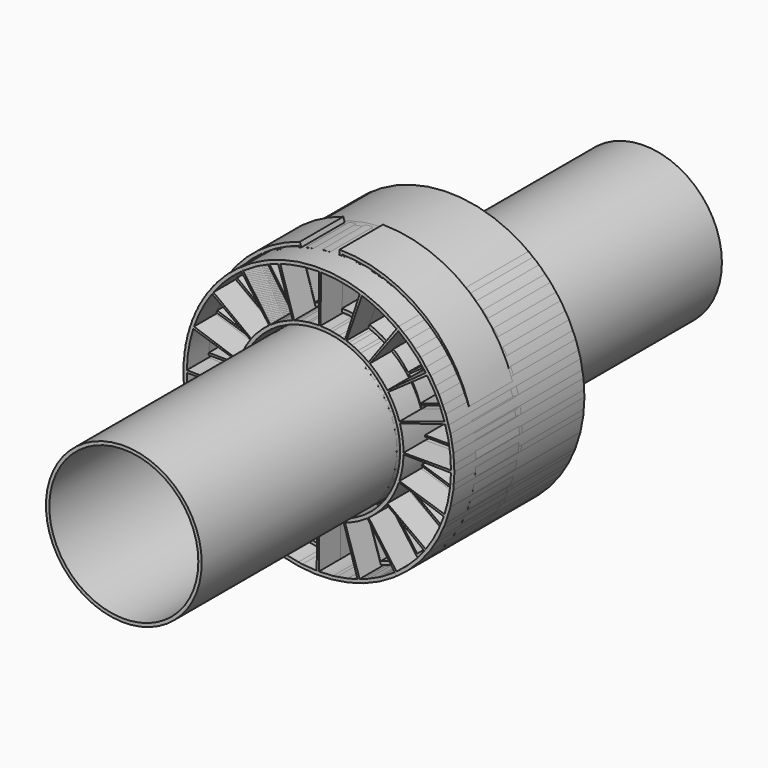
from build123d import *

# Parameters (mm, degrees)
F0_R      = 63.5
F0_R_2    = 38.1
F1_DEPTH  = 38.1
F2_R      = 63.5
F3_DEPTH  = 38.1
F4_R      = 38.1
F5_DEPTH  = 38.1
F6_R      = 36.5125
F6_R_2    = 34.925
F7_DEPTH  = 152.4
F9_DEPTH  = 38.1
F11_DEPTH = 3.175
F12_R     = 63.5
F12_R_2   = 38.1
F13_DEPTH = 1.5875
F15_DEPTH = 25.4
F17_DEPTH = 25.4


with BuildPart() as f1:
    # F0 (on Front) → F1 (new body, symmetric)
    with BuildSketch(Plane.XZ):
        Circle(F0_R)
        with BuildLine():
            Line((-50.088265, -36.391254), (-32.107862, -23.327727))
            ThreePointArc((-32.107862, -23.327727), (-28.307127, -27.817336), (-23.884534, -31.695847))
            Line((-23.884534, -31.695847), (-37.259873, -49.445521))
            ThreePointArc((-37.259873, -49.445521), (-44.159118, -43.395045), (-50.088265, -36.391254))
        make_face(mode=Mode.SUBTRACT)
        with BuildLine():
            Line((-19.132015, -58.882287), (-12.264112, -37.745055))
            ThreePointArc((-12.264112, -37.745055), (-6.550327, -39.14321), (-0.692642, -39.681455))
            Line((-0.692642, -39.681455), (-1.080522, -61.90307))
            ThreePointArc((-1.080522, -61.90307), (-10.21851, -61.063407), (-19.132015, -58.882287))
        make_face(mode=Mode.SUBTRACT)
        with BuildLine():
            Line((-36.391254, -50.088265), (-23.327727, -32.107862))
            ThreePointArc((-23.327727, -32.107862), (-18.325648, -35.203242), (-12.920986, -37.525268))
            Line((-12.920986, -37.525268), (-20.156738, -58.539419))
            ThreePointArc((-20.156738, -58.539419), (-28.588011, -54.917058), (-36.391254, -50.088265))
        make_face(mode=Mode.SUBTRACT)
        with BuildLine():
            Line((-58.882287, -19.132015), (-37.745055, -12.264112))
            ThreePointArc((-37.745055, -12.264112), (-35.517707, -17.708476), (-32.510097, -22.763815))
            Line((-32.510097, -22.763815), (-50.715751, -35.511551))
            ThreePointArc((-50.715751, -35.511551), (-55.407624, -27.625222), (-58.882287, -19.132015))
        make_face(mode=Mode.SUBTRACT)
        with BuildLine():
            Line((-61.9125, 0), (-39.6875, 0))
            ThreePointArc((-39.6875, 0), (-39.251567, -5.866186), (-37.953345, -11.603502))
            Line((-37.953345, -11.603502), (-59.207218, -18.101463))
            ThreePointArc((-59.207218, -18.101463), (-61.232445, -9.15125), (-61.9125, 0))
        make_face(mode=Mode.SUBTRACT)
        with BuildLine():
            Line((0, -61.9125), (0, -39.6875))
            ThreePointArc((0, -39.6875), (5.866186, -39.251567), (11.603502, -37.953345))
            Line((11.603502, -37.953345), (18.101463, -59.207218))
            ThreePointArc((18.101463, -59.207218), (9.15125, -61.232445), (0, -61.9125))
        make_face(mode=Mode.SUBTRACT)
        with BuildLine():
            Line((19.132015, -58.882287), (12.264112, -37.745055))
            ThreePointArc((12.264112, -37.745055), (17.708476, -35.517707), (22.763815, -32.510097))
            Line((22.763815, -32.510097), (35.511551, -50.715751))
            ThreePointArc((35.511551, -50.715751), (27.625222, -55.407624), (19.132015, -58.882287))
        make_face(mode=Mode.SUBTRACT)
        with BuildLine():
            Line((36.391254, -50.088265), (23.327727, -32.107862))
            ThreePointArc((23.327727, -32.107862), (27.817336, -28.307127), (31.695847, -23.884534))
            Line((31.695847, -23.884534), (49.445521, -37.259873))
            ThreePointArc((49.445521, -37.259873), (43.395045, -44.159118), (36.391254, -50.088265))
        make_face(mode=Mode.SUBTRACT)
        with BuildLine():
            Line((50.088265, -36.391254), (32.107862, -23.327727))
            ThreePointArc((32.107862, -23.327727), (35.203242, -18.325648), (37.525268, -12.920986))
            Line((37.525268, -12.920986), (58.539419, -20.156738))
            ThreePointArc((58.539419, -20.156738), (54.917058, -28.588011), (50.088265, -36.391254))
        make_face(mode=Mode.SUBTRACT)
        with BuildLine():
            Line((58.882287, -19.132015), (37.745055, -12.264112))
            ThreePointArc((37.745055, -12.264112), (39.14321, -6.550327), (39.681455, -0.692642))
            Line((39.681455, -0.692642), (61.90307, -1.080522))
            ThreePointArc((61.90307, -1.080522), (61.063407, -10.21851), (58.882287, -19.132015))
        make_face(mode=Mode.SUBTRACT)
        with BuildLine():
            Line((-58.882287, 19.132015), (-37.745055, 12.264112))
            ThreePointArc((-37.745055, 12.264112), (-39.14321, 6.550327), (-39.681455, 0.692642))
            Line((-39.681455, 0.692642), (-61.90307, 1.080522))
            ThreePointArc((-61.90307, 1.080522), (-61.063407, 10.21851), (-58.882287, 19.132015))
        make_face(mode=Mode.SUBTRACT)
        with BuildLine():
            Line((-50.088265, 36.391254), (-32.107862, 23.327727))
            ThreePointArc((-32.107862, 23.327727), (-35.203242, 18.325648), (-37.525268, 12.920986))
            Line((-37.525268, 12.920986), (-58.539419, 20.156738))
            ThreePointArc((-58.539419, 20.156738), (-54.917058, 28.588011), (-50.088265, 36.391254))
        make_face(mode=Mode.SUBTRACT)
        with BuildLine():
            Line((-36.391254, 50.088265), (-23.327727, 32.107862))
            ThreePointArc((-23.327727, 32.107862), (-27.817336, 28.307127), (-31.695847, 23.884534))
            Line((-31.695847, 23.884534), (-49.445521, 37.259873))
            ThreePointArc((-49.445521, 37.259873), (-43.395045, 44.159118), (-36.391254, 50.088265))
        make_face(mode=Mode.SUBTRACT)
        with BuildLine():
            Line((-19.132015, 58.882287), (-12.264112, 37.745055))
            ThreePointArc((-12.264112, 37.745055), (-17.708476, 35.517707), (-22.763815, 32.510097))
            Line((-22.763815, 32.510097), (-35.511551, 50.715751))
            ThreePointArc((-35.511551, 50.715751), (-27.625222, 55.407624), (-19.132015, 58.882287))
        make_face(mode=Mode.SUBTRACT)
        with BuildLine():
            Line((0, 61.9125), (0, 39.6875))
            ThreePointArc((0, 39.6875), (-5.866186, 39.251567), (-11.603502, 37.953345))
            Line((-11.603502, 37.953345), (-18.101463, 59.207218))
            ThreePointArc((-18.101463, 59.207218), (-9.15125, 61.232445), (0, 61.9125))
        make_face(mode=Mode.SUBTRACT)
        Circle(F0_R_2, mode=Mode.SUBTRACT)
        with BuildLine():
            Line((61.9125, 0), (39.6875, 0))
            ThreePointArc((39.6875, 0), (39.251567, 5.866186), (37.953345, 11.603502))
            Line((37.953345, 11.603502), (59.207218, 18.101463))
            ThreePointArc((59.207218, 18.101463), (61.232445, 9.15125), (61.9125, 0))
        make_face(mode=Mode.SUBTRACT)
        with BuildLine():
            Line((58.882287, 19.132015), (37.745055, 12.264112))
            ThreePointArc((37.745055, 12.264112), (35.517707, 17.708476), (32.510097, 22.763815))
            Line((32.510097, 22.763815), (50.715751, 35.511551))
            ThreePointArc((50.715751, 35.511551), (55.407624, 27.625222), (58.882287, 19.132015))
        make_face(mode=Mode.SUBTRACT)
        with BuildLine():
            Line((36.391254, 50.088265), (23.327727, 32.107862))
            ThreePointArc((23.327727, 32.107862), (18.325648, 35.203242), (12.920986, 37.525268))
            Line((12.920986, 37.525268), (20.156738, 58.539419))
            ThreePointArc((20.156738, 58.539419), (28.588011, 54.917058), (36.391254, 50.088265))
        make_face(mode=Mode.SUBTRACT)
        with BuildLine():
            Line((19.132015, 58.882287), (12.264112, 37.745055))
            ThreePointArc((12.264112, 37.745055), (6.550327, 39.14321), (0.692642, 39.681455))
            Line((0.692642, 39.681455), (1.080522, 61.90307))
            ThreePointArc((1.080522, 61.90307), (10.21851, 61.063407), (19.132015, 58.882287))
        make_face(mode=Mode.SUBTRACT)
        with BuildLine():
            Line((50.088265, 36.391254), (32.107862, 23.327727))
            ThreePointArc((32.107862, 23.327727), (28.307127, 27.817336), (23.884534, 31.695847))
            Line((23.884534, 31.695847), (37.259873, 49.445521))
            ThreePointArc((37.259873, 49.445521), (44.159118, 43.395045), (50.088265, 36.391254))
        make_face(mode=Mode.SUBTRACT)
    extrude(amount=F1_DEPTH, both=True)


with BuildPart() as f3:
    # F2 (on Front) → F3 (new body, symmetric)
    with BuildSketch(Plane.XZ):
        Circle(F2_R)
        with BuildLine():
            Line((-50.088265, -36.391254), (-32.107862, -23.327727))
            ThreePointArc((-32.107862, -23.327727), (-28.307127, -27.817336), (-23.884534, -31.695847))
            Line((-23.884534, -31.695847), (-37.259873, -49.445521))
            ThreePointArc((-37.259873, -49.445521), (-44.159118, -43.395045), (-50.088265, -36.391254))
        make_face(mode=Mode.SUBTRACT)
        with BuildLine():
            Line((-58.882287, -19.132015), (-37.745055, -12.264112))
            ThreePointArc((-37.745055, -12.264112), (-35.517707, -17.708476), (-32.510097, -22.763815))
            Line((-32.510097, -22.763815), (-50.715751, -35.511551))
            ThreePointArc((-50.715751, -35.511551), (-55.407624, -27.625222), (-58.882287, -19.132015))
        make_face(mode=Mode.SUBTRACT)
        with BuildLine():
            Line((-61.9125, 0), (-39.6875, 0))
            ThreePointArc((-39.6875, 0), (-39.251567, -5.866186), (-37.953345, -11.603502))
            Line((-37.953345, -11.603502), (-59.207218, -18.101463))
            ThreePointArc((-59.207218, -18.101463), (-61.232445, -9.15125), (-61.9125, 0))
        make_face(mode=Mode.SUBTRACT)
        with BuildLine():
            ThreePointArc((-22.394618, -30.823547), (-38.098549, 0.332481), (-21.853262, 31.209693))
            Line((-21.853262, 31.209693), (-35.511551, 50.715751))
            ThreePointArc((-35.511551, 50.715751), (0.540282, 61.910143), (36.391254, 50.088265))
            Line((36.391254, 50.088265), (22.394618, 30.823547))
            ThreePointArc((22.394618, 30.823547), (38.098549, -0.332481), (21.853262, -31.209693))
            Line((21.853262, -31.209693), (35.511551, -50.715751))
            ThreePointArc((35.511551, -50.715751), (-0.540282, -61.910143), (-36.391254, -50.088265))
            Line((-36.391254, -50.088265), (-22.394618, -30.823547))
        make_face(mode=Mode.SUBTRACT)
        with BuildLine():
            Line((36.391254, -50.088265), (23.327727, -32.107862))
            ThreePointArc((23.327727, -32.107862), (27.817336, -28.307127), (31.695847, -23.884534))
            Line((31.695847, -23.884534), (49.445521, -37.259873))
            ThreePointArc((49.445521, -37.259873), (43.395045, -44.159118), (36.391254, -50.088265))
        make_face(mode=Mode.SUBTRACT)
        with BuildLine():
            Line((50.088265, -36.391254), (32.107862, -23.327727))
            ThreePointArc((32.107862, -23.327727), (35.203242, -18.325648), (37.525268, -12.920986))
            Line((37.525268, -12.920986), (58.539419, -20.156738))
            ThreePointArc((58.539419, -20.156738), (54.917058, -28.588011), (50.088265, -36.391254))
        make_face(mode=Mode.SUBTRACT)
        with BuildLine():
            Line((58.882287, -19.132015), (37.745055, -12.264112))
            ThreePointArc((37.745055, -12.264112), (39.14321, -6.550327), (39.681455, -0.692642))
            Line((39.681455, -0.692642), (61.90307, -1.080522))
            ThreePointArc((61.90307, -1.080522), (61.063407, -10.21851), (58.882287, -19.132015))
        make_face(mode=Mode.SUBTRACT)
        with BuildLine():
            Line((-58.882287, 19.132015), (-37.745055, 12.264112))
            ThreePointArc((-37.745055, 12.264112), (-39.14321, 6.550327), (-39.681455, 0.692642))
            Line((-39.681455, 0.692642), (-61.90307, 1.080522))
            ThreePointArc((-61.90307, 1.080522), (-61.063407, 10.21851), (-58.882287, 19.132015))
        make_face(mode=Mode.SUBTRACT)
        with BuildLine():
            Line((-50.088265, 36.391254), (-32.107862, 23.327727))
            ThreePointArc((-32.107862, 23.327727), (-35.203242, 18.325648), (-37.525268, 12.920986))
            Line((-37.525268, 12.920986), (-58.539419, 20.156738))
            ThreePointArc((-58.539419, 20.156738), (-54.917058, 28.588011), (-50.088265, 36.391254))
        make_face(mode=Mode.SUBTRACT)
        with BuildLine():
            Line((-36.391254, 50.088265), (-23.327727, 32.107862))
            ThreePointArc((-23.327727, 32.107862), (-27.817336, 28.307127), (-31.695847, 23.884534))
            Line((-31.695847, 23.884534), (-49.445521, 37.259873))
            ThreePointArc((-49.445521, 37.259873), (-43.395045, 44.159118), (-36.391254, 50.088265))
        make_face(mode=Mode.SUBTRACT)
        with BuildLine():
            Line((61.9125, 0), (39.6875, 0))
            ThreePointArc((39.6875, 0), (39.251567, 5.866186), (37.953345, 11.603502))
            Line((37.953345, 11.603502), (59.207218, 18.101463))
            ThreePointArc((59.207218, 18.101463), (61.232445, 9.15125), (61.9125, 0))
        make_face(mode=Mode.SUBTRACT)
        with BuildLine():
            Line((58.882287, 19.132015), (37.745055, 12.264112))
            ThreePointArc((37.745055, 12.264112), (35.517707, 17.708476), (32.510097, 22.763815))
            Line((32.510097, 22.763815), (50.715751, 35.511551))
            ThreePointArc((50.715751, 35.511551), (55.407624, 27.625222), (58.882287, 19.132015))
        make_face(mode=Mode.SUBTRACT)
        with BuildLine():
            Line((50.088265, 36.391254), (32.107862, 23.327727))
            ThreePointArc((32.107862, 23.327727), (28.307127, 27.817336), (23.884534, 31.695847))
            Line((23.884534, 31.695847), (37.259873, 49.445521))
            ThreePointArc((37.259873, 49.445521), (44.159118, 43.395045), (50.088265, 36.391254))
        make_face(mode=Mode.SUBTRACT)
    extrude(amount=F3_DEPTH, both=True)


with BuildPart() as f5:
    # F4 (on Front) → F5 (new body, symmetric)
    with BuildSketch(Plane.XZ):
        with BuildLine():
            Line((-22.763815, 32.510097), (-36.422104, 52.016155))
            ThreePointArc((-36.422104, 52.016155), (-63.497582, 0.554135), (-37.324364, -51.372579))
            Line((-37.324364, -51.372579), (-23.327727, -32.107862))
            ThreePointArc((-23.327727, -32.107862), (-0.346334, -39.685989), (22.763815, -32.510097))
            Line((22.763815, -32.510097), (36.422104, -52.016155))
            ThreePointArc((36.422104, -52.016155), (63.497582, -0.554135), (37.324364, 51.372579))
            Line((37.324364, 51.372579), (23.327727, 32.107862))
            ThreePointArc((23.327727, 32.107862), (0.346334, 39.685989), (-22.763815, 32.510097))
        make_face()
        with BuildLine():
            Line((-50.088265, -36.391254), (-32.107862, -23.327727))
            ThreePointArc((-32.107862, -23.327727), (-28.307127, -27.817336), (-23.884534, -31.695847))
            Line((-23.884534, -31.695847), (-37.259873, -49.445521))
            ThreePointArc((-37.259873, -49.445521), (-44.159118, -43.395045), (-50.088265, -36.391254))
        make_face(mode=Mode.SUBTRACT)
        with BuildLine():
            Line((-58.882287, -19.132015), (-37.745055, -12.264112))
            ThreePointArc((-37.745055, -12.264112), (-35.517707, -17.708476), (-32.510097, -22.763815))
            Line((-32.510097, -22.763815), (-50.715751, -35.511551))
            ThreePointArc((-50.715751, -35.511551), (-55.407624, -27.625222), (-58.882287, -19.132015))
        make_face(mode=Mode.SUBTRACT)
        with BuildLine():
            Line((-61.9125, 0), (-39.6875, 0))
            ThreePointArc((-39.6875, 0), (-39.251567, -5.866186), (-37.953345, -11.603502))
            Line((-37.953345, -11.603502), (-59.207218, -18.101463))
            ThreePointArc((-59.207218, -18.101463), (-61.232445, -9.15125), (-61.9125, 0))
        make_face(mode=Mode.SUBTRACT)
        Circle(F4_R, mode=Mode.SUBTRACT)
        with BuildLine():
            Line((36.391254, -50.088265), (23.327727, -32.107862))
            ThreePointArc((23.327727, -32.107862), (27.817336, -28.307127), (31.695847, -23.884534))
            Line((31.695847, -23.884534), (49.445521, -37.259873))
            ThreePointArc((49.445521, -37.259873), (43.395045, -44.159118), (36.391254, -50.088265))
        make_face(mode=Mode.SUBTRACT)
        with BuildLine():
            Line((50.088265, -36.391254), (32.107862, -23.327727))
            ThreePointArc((32.107862, -23.327727), (35.203242, -18.325648), (37.525268, -12.920986))
            Line((37.525268, -12.920986), (58.539419, -20.156738))
            ThreePointArc((58.539419, -20.156738), (54.917058, -28.588011), (50.088265, -36.391254))
        make_face(mode=Mode.SUBTRACT)
        with BuildLine():
            Line((58.882287, -19.132015), (37.745055, -12.264112))
            ThreePointArc((37.745055, -12.264112), (39.14321, -6.550327), (39.681455, -0.692642))
            Line((39.681455, -0.692642), (61.90307, -1.080522))
            ThreePointArc((61.90307, -1.080522), (61.063407, -10.21851), (58.882287, -19.132015))
        make_face(mode=Mode.SUBTRACT)
        with BuildLine():
            Line((-58.882287, 19.132015), (-37.745055, 12.264112))
            ThreePointArc((-37.745055, 12.264112), (-39.14321, 6.550327), (-39.681455, 0.692642))
            Line((-39.681455, 0.692642), (-61.90307, 1.080522))
            ThreePointArc((-61.90307, 1.080522), (-61.063407, 10.21851), (-58.882287, 19.132015))
        make_face(mode=Mode.SUBTRACT)
        with BuildLine():
            Line((-50.088265, 36.391254), (-32.107862, 23.327727))
            ThreePointArc((-32.107862, 23.327727), (-35.203242, 18.325648), (-37.525268, 12.920986))
            Line((-37.525268, 12.920986), (-58.539419, 20.156738))
            ThreePointArc((-58.539419, 20.156738), (-54.917058, 28.588011), (-50.088265, 36.391254))
        make_face(mode=Mode.SUBTRACT)
        with BuildLine():
            Line((-36.391254, 50.088265), (-23.327727, 32.107862))
            ThreePointArc((-23.327727, 32.107862), (-27.817336, 28.307127), (-31.695847, 23.884534))
            Line((-31.695847, 23.884534), (-49.445521, 37.259873))
            ThreePointArc((-49.445521, 37.259873), (-43.395045, 44.159118), (-36.391254, 50.088265))
        make_face(mode=Mode.SUBTRACT)
        with BuildLine():
            Line((61.9125, 0), (39.6875, 0))
            ThreePointArc((39.6875, 0), (39.251567, 5.866186), (37.953345, 11.603502))
            Line((37.953345, 11.603502), (59.207218, 18.101463))
            ThreePointArc((59.207218, 18.101463), (61.232445, 9.15125), (61.9125, 0))
        make_face(mode=Mode.SUBTRACT)
        with BuildLine():
            Line((58.882287, 19.132015), (37.745055, 12.264112))
            ThreePointArc((37.745055, 12.264112), (35.517707, 17.708476), (32.510097, 22.763815))
            Line((32.510097, 22.763815), (50.715751, 35.511551))
            ThreePointArc((50.715751, 35.511551), (55.407624, 27.625222), (58.882287, 19.132015))
        make_face(mode=Mode.SUBTRACT)
        with BuildLine():
            Line((50.088265, 36.391254), (32.107862, 23.327727))
            ThreePointArc((32.107862, 23.327727), (28.307127, 27.817336), (23.884534, 31.695847))
            Line((23.884534, 31.695847), (37.259873, 49.445521))
            ThreePointArc((37.259873, 49.445521), (44.159118, 43.395045), (50.088265, 36.391254))
        make_face(mode=Mode.SUBTRACT)
    extrude(amount=F5_DEPTH, both=True)


with BuildPart() as f7:
    # F6 (on Front) → F7 (new body, symmetric)
    with BuildSketch(Plane.XZ):
        Circle(F6_R)
        Circle(F6_R_2, mode=Mode.SUBTRACT)
    extrude(amount=F7_DEPTH, both=True)


with BuildPart() as f9:
    # F8 (on Front) → F9 (new body, symmetric)
    with BuildSketch(Plane.XZ):
        with BuildLine():
            Line((-19.994428, 28.635266), (-20.903265, 29.936869))
            ThreePointArc((-20.903265, 29.936869), (-36.511025, 0.328139), (-21.437955, -29.556332))
            Line((-21.437955, -29.556332), (-20.50587, -28.271274))
            ThreePointArc((-20.50587, -28.271274), (-34.92359, 0.313872), (-19.994428, 28.635266))
        make_face()
        with BuildLine():
            ThreePointArc((20.980074, -29.883091), (36.511108, -0.318782), (21.49866, 29.512206))
            Line((21.49866, 29.512206), (20.563936, 28.229066))
            ThreePointArc((20.563936, 28.229066), (34.923669, -0.304922), (20.067897, -28.583826))
            Line((20.067897, -28.583826), (20.980074, -29.883091))
        make_face()
    extrude(amount=F9_DEPTH, both=True)


with BuildPart() as f11:
    # F10 (on Front) → F11 (new body, symmetric)
    with BuildSketch(Plane.XZ):
        with BuildLine():
            Line((-20.847479, 29.975745), (-19.941066, 28.672452))
            ThreePointArc((-19.941066, 28.672452), (-34.923122, 0.362146), (-20.531369, -28.252761))
            Line((-20.531369, -28.252761), (-21.464613, -29.536977))
            ThreePointArc((-21.464613, -29.536977), (-0.285641, -36.511383), (20.999859, -29.869191))
            Line((20.999859, -29.869191), (20.086821, -28.570531))
            ThreePointArc((20.086821, -28.570531), (34.923633, -0.308996), (20.589208, 28.210639))
            Line((20.589208, 28.210639), (21.525081, 29.492941))
            ThreePointArc((21.525081, 29.492941), (0.416006, 36.51013), (-20.847479, 29.975745))
        make_face()
    extrude(amount=F11_DEPTH, both=True)


with BuildPart() as f13:
    # F12 (on Front) → F13 (new body, symmetric)
    with BuildSketch(Plane.XZ):
        Circle(F12_R)
        Circle(F12_R_2, mode=Mode.SUBTRACT)
    extrude(amount=F13_DEPTH, both=True)


with BuildPart() as f15:
    # F14 (on Front) → F15 (new body)
    with BuildSketch(Plane.XZ):
        with BuildLine():
            ThreePointArc((63.5, 0), (44.901281, 44.901281), (0, 63.5))
            ThreePointArc((0, 63.5), (-51.044911, 37.771247), (-60.725352, -18.565603))
            ThreePointArc((-60.725352, -18.565603), (-29.811444, -56.067172), (18.565603, -60.725352))
            ThreePointArc((18.565603, -60.725352), (51.044911, -37.771247), (63.5, 0))
        make_face()
        with BuildLine():
            Line((-50.088265, -36.391254), (-32.107862, -23.327727))
            ThreePointArc((-32.107862, -23.327727), (-28.307127, -27.817336), (-23.884534, -31.695847))
            Line((-23.884534, -31.695847), (-37.259873, -49.445521))
            ThreePointArc((-37.259873, -49.445521), (-44.159118, -43.395045), (-50.088265, -36.391254))
        make_face(mode=Mode.SUBTRACT)
        with BuildLine():
            Line((-19.132015, -58.882287), (-12.264112, -37.745055))
            ThreePointArc((-12.264112, -37.745055), (-6.550327, -39.14321), (-0.692642, -39.681455))
            Line((-0.692642, -39.681455), (-1.080522, -61.90307))
            ThreePointArc((-1.080522, -61.90307), (-10.21851, -61.063407), (-19.132015, -58.882287))
        make_face(mode=Mode.SUBTRACT)
        with BuildLine():
            Line((-36.391254, -50.088265), (-23.327727, -32.107862))
            ThreePointArc((-23.327727, -32.107862), (-18.325648, -35.203242), (-12.920986, -37.525268))
            Line((-12.920986, -37.525268), (-20.156738, -58.539419))
            ThreePointArc((-20.156738, -58.539419), (-28.588011, -54.917058), (-36.391254, -50.088265))
        make_face(mode=Mode.SUBTRACT)
        with BuildLine():
            Line((-58.882287, -19.132015), (-37.745055, -12.264112))
            ThreePointArc((-37.745055, -12.264112), (-35.517707, -17.708476), (-32.510097, -22.763815))
            Line((-32.510097, -22.763815), (-50.715751, -35.511551))
            ThreePointArc((-50.715751, -35.511551), (-55.407624, -27.625222), (-58.882287, -19.132015))
        make_face(mode=Mode.SUBTRACT)
        with BuildLine():
            Line((19.132015, -58.882287), (12.264112, -37.745055))
            ThreePointArc((12.264112, -37.745055), (17.708476, -35.517707), (22.763815, -32.510097))
            Line((22.763815, -32.510097), (35.511551, -50.715751))
            ThreePointArc((35.511551, -50.715751), (27.625222, -55.407624), (19.132015, -58.882287))
        make_face(mode=Mode.SUBTRACT)
        with BuildLine():
            Line((36.391254, -50.088265), (23.327727, -32.107862))
            ThreePointArc((23.327727, -32.107862), (27.817336, -28.307127), (31.695847, -23.884534))
            Line((31.695847, -23.884534), (49.445521, -37.259873))
            ThreePointArc((49.445521, -37.259873), (43.395045, -44.159118), (36.391254, -50.088265))
        make_face(mode=Mode.SUBTRACT)
        with BuildLine():
            Line((50.088265, -36.391254), (32.107862, -23.327727))
            ThreePointArc((32.107862, -23.327727), (35.203242, -18.325648), (37.525268, -12.920986))
            Line((37.525268, -12.920986), (58.539419, -20.156738))
            ThreePointArc((58.539419, -20.156738), (54.917058, -28.588011), (50.088265, -36.391254))
        make_face(mode=Mode.SUBTRACT)
        with BuildLine():
            Line((58.882287, -19.132015), (37.745055, -12.264112))
            ThreePointArc((37.745055, -12.264112), (39.14321, -6.550327), (39.681455, -0.692642))
            Line((39.681455, -0.692642), (61.90307, -1.080522))
            ThreePointArc((61.90307, -1.080522), (61.063407, -10.21851), (58.882287, -19.132015))
        make_face(mode=Mode.SUBTRACT)
        with BuildLine():
            Line((-58.882287, 19.132015), (-37.745055, 12.264112))
            ThreePointArc((-37.745055, 12.264112), (-39.14321, 6.550327), (-39.681455, 0.692642))
            Line((-39.681455, 0.692642), (-61.90307, 1.080522))
            ThreePointArc((-61.90307, 1.080522), (-61.063407, 10.21851), (-58.882287, 19.132015))
        make_face(mode=Mode.SUBTRACT)
        with BuildLine():
            Line((-50.088265, 36.391254), (-32.107862, 23.327727))
            ThreePointArc((-32.107862, 23.327727), (-35.203242, 18.325648), (-37.525268, 12.920986))
            Line((-37.525268, 12.920986), (-58.539419, 20.156738))
            ThreePointArc((-58.539419, 20.156738), (-54.917058, 28.588011), (-50.088265, 36.391254))
        make_face(mode=Mode.SUBTRACT)
        with BuildLine():
            ThreePointArc((-38.1, 0), (-30.626946, 22.662748), (-11.139362, 36.435211))
            Line((-11.139362, 36.435211), (-18.101463, 59.207218))
            ThreePointArc((-18.101463, 59.207218), (-9.15125, 61.232445), (0, 61.9125))
            Line((0, 61.9125), (0, 38.1))
            ThreePointArc((0, 38.1), (22.662748, 30.626946), (36.435211, 11.139362))
            Line((36.435211, 11.139362), (59.207218, 18.101463))
            ThreePointArc((59.207218, 18.101463), (61.232445, 9.15125), (61.9125, 0))
            Line((61.9125, 0), (38.1, 0))
            ThreePointArc((38.1, 0), (30.626946, -22.662748), (11.139362, -36.435211))
            Line((11.139362, -36.435211), (18.101463, -59.207218))
            ThreePointArc((18.101463, -59.207218), (9.15125, -61.232445), (0, -61.9125))
            Line((0, -61.9125), (0, -38.1))
            ThreePointArc((0, -38.1), (-22.662748, -30.626946), (-36.435211, -11.139362))
            Line((-36.435211, -11.139362), (-59.207218, -18.101463))
            ThreePointArc((-59.207218, -18.101463), (-61.232445, -9.15125), (-61.9125, 0))
            Line((-61.9125, 0), (-38.1, 0))
        make_face(mode=Mode.SUBTRACT)
        with BuildLine():
            Line((-36.391254, 50.088265), (-23.327727, 32.107862))
            ThreePointArc((-23.327727, 32.107862), (-27.817336, 28.307127), (-31.695847, 23.884534))
            Line((-31.695847, 23.884534), (-49.445521, 37.259873))
            ThreePointArc((-49.445521, 37.259873), (-43.395045, 44.159118), (-36.391254, 50.088265))
        make_face(mode=Mode.SUBTRACT)
        with BuildLine():
            Line((-19.132015, 58.882287), (-12.264112, 37.745055))
            ThreePointArc((-12.264112, 37.745055), (-17.708476, 35.517707), (-22.763815, 32.510097))
            Line((-22.763815, 32.510097), (-35.511551, 50.715751))
            ThreePointArc((-35.511551, 50.715751), (-27.625222, 55.407624), (-19.132015, 58.882287))
        make_face(mode=Mode.SUBTRACT)
        with BuildLine():
            Line((58.882287, 19.132015), (37.745055, 12.264112))
            ThreePointArc((37.745055, 12.264112), (35.517707, 17.708476), (32.510097, 22.763815))
            Line((32.510097, 22.763815), (50.715751, 35.511551))
            ThreePointArc((50.715751, 35.511551), (55.407624, 27.625222), (58.882287, 19.132015))
        make_face(mode=Mode.SUBTRACT)
        with BuildLine():
            Line((36.391254, 50.088265), (23.327727, 32.107862))
            ThreePointArc((23.327727, 32.107862), (18.325648, 35.203242), (12.920986, 37.525268))
            Line((12.920986, 37.525268), (20.156738, 58.539419))
            ThreePointArc((20.156738, 58.539419), (28.588011, 54.917058), (36.391254, 50.088265))
        make_face(mode=Mode.SUBTRACT)
        with BuildLine():
            Line((19.132015, 58.882287), (12.264112, 37.745055))
            ThreePointArc((12.264112, 37.745055), (6.550327, 39.14321), (0.692642, 39.681455))
            Line((0.692642, 39.681455), (1.080522, 61.90307))
            ThreePointArc((1.080522, 61.90307), (10.21851, 61.063407), (19.132015, 58.882287))
        make_face(mode=Mode.SUBTRACT)
        with BuildLine():
            Line((50.088265, 36.391254), (32.107862, 23.327727))
            ThreePointArc((32.107862, 23.327727), (28.307127, 27.817336), (23.884534, 31.695847))
            Line((23.884534, 31.695847), (37.259873, 49.445521))
            ThreePointArc((37.259873, 49.445521), (44.159118, 43.395045), (50.088265, 36.391254))
        make_face(mode=Mode.SUBTRACT)
        with BuildLine():
            ThreePointArc((63.5, 0), (44.901281, 44.901281), (0, 63.5))
            ThreePointArc((0, 63.5), (-51.044911, 37.771247), (-60.725352, -18.565603))
            ThreePointArc((-60.725352, -18.565603), (-29.811444, -56.067172), (18.565603, -60.725352))
            ThreePointArc((18.565603, -60.725352), (51.044911, -37.771247), (63.5, 0))
        make_face()
        with BuildLine():
            Line((-50.088265, -36.391254), (-32.107862, -23.327727))
            ThreePointArc((-32.107862, -23.327727), (-28.307127, -27.817336), (-23.884534, -31.695847))
            Line((-23.884534, -31.695847), (-37.259873, -49.445521))
            ThreePointArc((-37.259873, -49.445521), (-44.159118, -43.395045), (-50.088265, -36.391254))
        make_face(mode=Mode.SUBTRACT)
        with BuildLine():
            Line((-19.132015, -58.882287), (-12.264112, -37.745055))
            ThreePointArc((-12.264112, -37.745055), (-6.550327, -39.14321), (-0.692642, -39.681455))
            Line((-0.692642, -39.681455), (-1.080522, -61.90307))
            ThreePointArc((-1.080522, -61.90307), (-10.21851, -61.063407), (-19.132015, -58.882287))
        make_face(mode=Mode.SUBTRACT)
        with BuildLine():
            Line((-36.391254, -50.088265), (-23.327727, -32.107862))
            ThreePointArc((-23.327727, -32.107862), (-18.325648, -35.203242), (-12.920986, -37.525268))
            Line((-12.920986, -37.525268), (-20.156738, -58.539419))
            ThreePointArc((-20.156738, -58.539419), (-28.588011, -54.917058), (-36.391254, -50.088265))
        make_face(mode=Mode.SUBTRACT)
        with BuildLine():
            Line((-58.882287, -19.132015), (-37.745055, -12.264112))
            ThreePointArc((-37.745055, -12.264112), (-35.517707, -17.708476), (-32.510097, -22.763815))
            Line((-32.510097, -22.763815), (-50.715751, -35.511551))
            ThreePointArc((-50.715751, -35.511551), (-55.407624, -27.625222), (-58.882287, -19.132015))
        make_face(mode=Mode.SUBTRACT)
        with BuildLine():
            Line((19.132015, -58.882287), (12.264112, -37.745055))
            ThreePointArc((12.264112, -37.745055), (17.708476, -35.517707), (22.763815, -32.510097))
            Line((22.763815, -32.510097), (35.511551, -50.715751))
            ThreePointArc((35.511551, -50.715751), (27.625222, -55.407624), (19.132015, -58.882287))
        make_face(mode=Mode.SUBTRACT)
        with BuildLine():
            Line((36.391254, -50.088265), (23.327727, -32.107862))
            ThreePointArc((23.327727, -32.107862), (27.817336, -28.307127), (31.695847, -23.884534))
            Line((31.695847, -23.884534), (49.445521, -37.259873))
            ThreePointArc((49.445521, -37.259873), (43.395045, -44.159118), (36.391254, -50.088265))
        make_face(mode=Mode.SUBTRACT)
        with BuildLine():
            Line((50.088265, -36.391254), (32.107862, -23.327727))
            ThreePointArc((32.107862, -23.327727), (35.203242, -18.325648), (37.525268, -12.920986))
            Line((37.525268, -12.920986), (58.539419, -20.156738))
            ThreePointArc((58.539419, -20.156738), (54.917058, -28.588011), (50.088265, -36.391254))
        make_face(mode=Mode.SUBTRACT)
        with BuildLine():
            Line((58.882287, -19.132015), (37.745055, -12.264112))
            ThreePointArc((37.745055, -12.264112), (39.14321, -6.550327), (39.681455, -0.692642))
            Line((39.681455, -0.692642), (61.90307, -1.080522))
            ThreePointArc((61.90307, -1.080522), (61.063407, -10.21851), (58.882287, -19.132015))
        make_face(mode=Mode.SUBTRACT)
        with BuildLine():
            Line((-58.882287, 19.132015), (-37.745055, 12.264112))
            ThreePointArc((-37.745055, 12.264112), (-39.14321, 6.550327), (-39.681455, 0.692642))
            Line((-39.681455, 0.692642), (-61.90307, 1.080522))
            ThreePointArc((-61.90307, 1.080522), (-61.063407, 10.21851), (-58.882287, 19.132015))
        make_face(mode=Mode.SUBTRACT)
        with BuildLine():
            Line((-50.088265, 36.391254), (-32.107862, 23.327727))
            ThreePointArc((-32.107862, 23.327727), (-35.203242, 18.325648), (-37.525268, 12.920986))
            Line((-37.525268, 12.920986), (-58.539419, 20.156738))
            ThreePointArc((-58.539419, 20.156738), (-54.917058, 28.588011), (-50.088265, 36.391254))
        make_face(mode=Mode.SUBTRACT)
        with BuildLine():
            ThreePointArc((-38.1, 0), (-30.626946, 22.662748), (-11.139362, 36.435211))
            Line((-11.139362, 36.435211), (-18.101463, 59.207218))
            ThreePointArc((-18.101463, 59.207218), (-9.15125, 61.232445), (0, 61.9125))
            Line((0, 61.9125), (0, 38.1))
            ThreePointArc((0, 38.1), (22.662748, 30.626946), (36.435211, 11.139362))
            Line((36.435211, 11.139362), (59.207218, 18.101463))
            ThreePointArc((59.207218, 18.101463), (61.232445, 9.15125), (61.9125, 0))
            Line((61.9125, 0), (38.1, 0))
            ThreePointArc((38.1, 0), (30.626946, -22.662748), (11.139362, -36.435211))
            Line((11.139362, -36.435211), (18.101463, -59.207218))
            ThreePointArc((18.101463, -59.207218), (9.15125, -61.232445), (0, -61.9125))
            Line((0, -61.9125), (0, -38.1))
            ThreePointArc((0, -38.1), (-22.662748, -30.626946), (-36.435211, -11.139362))
            Line((-36.435211, -11.139362), (-59.207218, -18.101463))
            ThreePointArc((-59.207218, -18.101463), (-61.232445, -9.15125), (-61.9125, 0))
            Line((-61.9125, 0), (-38.1, 0))
        make_face(mode=Mode.SUBTRACT)
        with BuildLine():
            Line((-36.391254, 50.088265), (-23.327727, 32.107862))
            ThreePointArc((-23.327727, 32.107862), (-27.817336, 28.307127), (-31.695847, 23.884534))
            Line((-31.695847, 23.884534), (-49.445521, 37.259873))
            ThreePointArc((-49.445521, 37.259873), (-43.395045, 44.159118), (-36.391254, 50.088265))
        make_face(mode=Mode.SUBTRACT)
        with BuildLine():
            Line((-19.132015, 58.882287), (-12.264112, 37.745055))
            ThreePointArc((-12.264112, 37.745055), (-17.708476, 35.517707), (-22.763815, 32.510097))
            Line((-22.763815, 32.510097), (-35.511551, 50.715751))
            ThreePointArc((-35.511551, 50.715751), (-27.625222, 55.407624), (-19.132015, 58.882287))
        make_face(mode=Mode.SUBTRACT)
        with BuildLine():
            Line((58.882287, 19.132015), (37.745055, 12.264112))
            ThreePointArc((37.745055, 12.264112), (35.517707, 17.708476), (32.510097, 22.763815))
            Line((32.510097, 22.763815), (50.715751, 35.511551))
            ThreePointArc((50.715751, 35.511551), (55.407624, 27.625222), (58.882287, 19.132015))
        make_face(mode=Mode.SUBTRACT)
        with BuildLine():
            Line((36.391254, 50.088265), (23.327727, 32.107862))
            ThreePointArc((23.327727, 32.107862), (18.325648, 35.203242), (12.920986, 37.525268))
            Line((12.920986, 37.525268), (20.156738, 58.539419))
            ThreePointArc((20.156738, 58.539419), (28.588011, 54.917058), (36.391254, 50.088265))
        make_face(mode=Mode.SUBTRACT)
        with BuildLine():
            Line((19.132015, 58.882287), (12.264112, 37.745055))
            ThreePointArc((12.264112, 37.745055), (6.550327, 39.14321), (0.692642, 39.681455))
            Line((0.692642, 39.681455), (1.080522, 61.90307))
            ThreePointArc((1.080522, 61.90307), (10.21851, 61.063407), (19.132015, 58.882287))
        make_face(mode=Mode.SUBTRACT)
        with BuildLine():
            Line((50.088265, 36.391254), (32.107862, 23.327727))
            ThreePointArc((32.107862, 23.327727), (28.307127, 27.817336), (23.884534, 31.695847))
            Line((23.884534, 31.695847), (37.259873, 49.445521))
            ThreePointArc((37.259873, 49.445521), (44.159118, 43.395045), (50.088265, 36.391254))
        make_face(mode=Mode.SUBTRACT)
    extrude(amount=F15_DEPTH)


with BuildPart() as f17:
    # F16 (on Front) → F17 (new body)
    with BuildSketch(Plane.XZ):
        with BuildLine():
            Line((-12.073585, 40.068988), (-19.035686, 62.840995))
            ThreePointArc((-19.035686, 62.840995), (-51.514993, 39.88689), (-63.970083, 2.115643))
            Line((-63.970083, 2.115643), (-40.157583, 2.115643))
            ThreePointArc((-40.157583, 2.115643), (-39.72165, -3.750543), (-38.423428, -9.487859))
            Line((-38.423428, -9.487859), (-61.195435, -16.44996))
            ThreePointArc((-61.195435, -16.44996), (-38.24133, -48.929267), (-0.470083, -61.384357))
            Line((-0.470083, -61.384357), (-0.470083, -37.571857))
            ThreePointArc((-0.470083, -37.571857), (5.396103, -37.135924), (11.133419, -35.837702))
            Line((11.133419, -35.837702), (18.09552, -58.609709))
            ThreePointArc((18.09552, -58.609709), (50.574828, -35.655604), (63.029917, 2.115643))
            Line((63.029917, 2.115643), (39.217417, 2.115643))
            ThreePointArc((39.217417, 2.115643), (38.781484, 7.981829), (37.483262, 13.719145))
            Line((37.483262, 13.719145), (60.255269, 20.681247))
            ThreePointArc((60.255269, 20.681247), (37.301164, 53.160554), (-0.470083, 65.615643))
            Line((-0.470083, 65.615643), (-0.470083, 41.803143))
            ThreePointArc((-0.470083, 41.803143), (-6.336269, 41.36721), (-12.073585, 40.068988))
        make_face()
        with BuildLine():
            Line((-50.558347, -34.275611), (-32.577945, -21.212084))
            ThreePointArc((-32.577945, -21.212084), (-28.77721, -25.701693), (-24.354617, -29.580203))
            Line((-24.354617, -29.580203), (-37.729955, -47.329878))
            ThreePointArc((-37.729955, -47.329878), (-44.629201, -41.279401), (-50.558347, -34.275611))
        make_face(mode=Mode.SUBTRACT)
        with BuildLine():
            Line((-19.602097, -56.766643), (-12.734195, -35.629412))
            ThreePointArc((-12.734195, -35.629412), (-7.02041, -37.027566), (-1.162725, -37.565812))
            Line((-1.162725, -37.565812), (-1.550605, -59.787427))
            ThreePointArc((-1.550605, -59.787427), (-10.688593, -58.947764), (-19.602097, -56.766643))
        make_face(mode=Mode.SUBTRACT)
        with BuildLine():
            Line((-36.861337, -47.972621), (-23.79781, -29.992219))
            ThreePointArc((-23.79781, -29.992219), (-18.795731, -33.087599), (-13.391069, -35.409625))
            Line((-13.391069, -35.409625), (-20.626821, -56.423775))
            ThreePointArc((-20.626821, -56.423775), (-29.058094, -52.801415), (-36.861337, -47.972621))
        make_face(mode=Mode.SUBTRACT)
        with BuildLine():
            Line((-59.352369, -17.016371), (-38.215138, -10.148469))
            ThreePointArc((-38.215138, -10.148469), (-35.98779, -15.592832), (-32.98018, -20.648171))
            Line((-32.98018, -20.648171), (-51.185834, -33.395908))
            ThreePointArc((-51.185834, -33.395908), (-55.877706, -25.509579), (-59.352369, -17.016371))
        make_face(mode=Mode.SUBTRACT)
        with BuildLine():
            Line((18.661932, -56.766643), (11.794029, -35.629412))
            ThreePointArc((11.794029, -35.629412), (17.238393, -33.402064), (22.293732, -30.394453))
            Line((22.293732, -30.394453), (35.041468, -48.600108))
            ThreePointArc((35.041468, -48.600108), (27.155139, -53.29198), (18.661932, -56.766643))
        make_face(mode=Mode.SUBTRACT)
        with BuildLine():
            Line((35.921172, -47.972621), (22.857644, -29.992219))
            ThreePointArc((22.857644, -29.992219), (27.347254, -26.191484), (31.225764, -21.76889))
            Line((31.225764, -21.76889), (48.975438, -35.144229))
            ThreePointArc((48.975438, -35.144229), (42.924962, -42.043475), (35.921172, -47.972621))
        make_face(mode=Mode.SUBTRACT)
        with BuildLine():
            Line((49.618182, -34.275611), (31.637779, -21.212084))
            ThreePointArc((31.637779, -21.212084), (34.73316, -16.210005), (37.055186, -10.805343))
            Line((37.055186, -10.805343), (58.069336, -18.041095))
            ThreePointArc((58.069336, -18.041095), (54.446975, -26.472368), (49.618182, -34.275611))
        make_face(mode=Mode.SUBTRACT)
        with BuildLine():
            Line((58.412204, -17.016371), (37.274973, -10.148469))
            ThreePointArc((37.274973, -10.148469), (38.673127, -4.434683), (39.211373, 1.423001))
            Line((39.211373, 1.423001), (61.432988, 1.035121))
            ThreePointArc((61.432988, 1.035121), (60.593325, -8.102866), (58.412204, -17.016371))
        make_face(mode=Mode.SUBTRACT)
        with BuildLine():
            Line((-59.352369, 21.247658), (-38.215138, 14.379755))
            ThreePointArc((-38.215138, 14.379755), (-39.613293, 8.66597), (-40.151538, 2.808286))
            Line((-40.151538, 2.808286), (-62.373153, 3.196166))
            ThreePointArc((-62.373153, 3.196166), (-61.53349, 12.334153), (-59.352369, 21.247658))
        make_face(mode=Mode.SUBTRACT)
        with BuildLine():
            Line((-50.558347, 38.506898), (-32.577945, 25.443371))
            ThreePointArc((-32.577945, 25.443371), (-35.673325, 20.441292), (-37.995351, 15.03663))
            Line((-37.995351, 15.03663), (-59.009502, 22.272382))
            ThreePointArc((-59.009502, 22.272382), (-55.387141, 30.703654), (-50.558347, 38.506898))
        make_face(mode=Mode.SUBTRACT)
        with BuildLine():
            ThreePointArc((-38.570083, 2.115643), (-27.410851, 29.056412), (-0.470083, 40.215643))
            ThreePointArc((-0.470083, 40.215643), (22.192665, 32.74259), (35.965128, 13.255005))
            ThreePointArc((35.965128, 13.255005), (33.170221, -15.771223), (10.669279, -34.319568))
            ThreePointArc((10.669279, -34.319568), (-23.132831, -28.511303), (-38.570083, 2.115643))
        make_face(mode=Mode.SUBTRACT)
        with BuildLine():
            Line((-36.861337, 52.203908), (-23.79781, 34.223505))
            ThreePointArc((-23.79781, 34.223505), (-28.287419, 30.422771), (-32.16593, 26.000177))
            Line((-32.16593, 26.000177), (-49.915604, 39.375516))
            ThreePointArc((-49.915604, 39.375516), (-43.865128, 46.274762), (-36.861337, 52.203908))
        make_face(mode=Mode.SUBTRACT)
        with BuildLine():
            Line((-19.602097, 60.99793), (-12.734195, 39.860699))
            ThreePointArc((-12.734195, 39.860699), (-18.178558, 37.633351), (-23.233898, 34.62574))
            Line((-23.233898, 34.62574), (-35.981634, 52.831394))
            ThreePointArc((-35.981634, 52.831394), (-28.095305, 57.523267), (-19.602097, 60.99793))
        make_face(mode=Mode.SUBTRACT)
        with BuildLine():
            Line((58.412204, 21.247658), (37.274973, 14.379755))
            ThreePointArc((37.274973, 14.379755), (35.047625, 19.824119), (32.040014, 24.879458))
            Line((32.040014, 24.879458), (50.245668, 37.627195))
            ThreePointArc((50.245668, 37.627195), (54.937541, 29.740866), (58.412204, 21.247658))
        make_face(mode=Mode.SUBTRACT)
        with BuildLine():
            Line((35.921172, 52.203908), (22.857644, 34.223505))
            ThreePointArc((22.857644, 34.223505), (17.855565, 37.318886), (12.450903, 39.640912))
            Line((12.450903, 39.640912), (19.686656, 60.655062))
            ThreePointArc((19.686656, 60.655062), (28.117928, 57.032702), (35.921172, 52.203908))
        make_face(mode=Mode.SUBTRACT)
        with BuildLine():
            Line((18.661932, 60.99793), (11.794029, 39.860699))
            ThreePointArc((11.794029, 39.860699), (6.080244, 41.258853), (0.22256, 41.797099))
            Line((0.22256, 41.797099), (0.610439, 64.018714))
            ThreePointArc((0.610439, 64.018714), (9.748427, 63.179051), (18.661932, 60.99793))
        make_face(mode=Mode.SUBTRACT)
        with BuildLine():
            Line((49.618182, 38.506898), (31.637779, 25.443371))
            ThreePointArc((31.637779, 25.443371), (27.837044, 29.93298), (23.414451, 33.81149))
            Line((23.414451, 33.81149), (36.78979, 51.561164))
            ThreePointArc((36.78979, 51.561164), (43.689036, 45.510688), (49.618182, 38.506898))
        make_face(mode=Mode.SUBTRACT)
        with BuildLine():
            Line((-12.073585, 40.068988), (-19.035686, 62.840995))
            ThreePointArc((-19.035686, 62.840995), (-51.514993, 39.88689), (-63.970083, 2.115643))
            Line((-63.970083, 2.115643), (-40.157583, 2.115643))
            ThreePointArc((-40.157583, 2.115643), (-39.72165, -3.750543), (-38.423428, -9.487859))
            Line((-38.423428, -9.487859), (-61.195435, -16.44996))
            ThreePointArc((-61.195435, -16.44996), (-38.24133, -48.929267), (-0.470083, -61.384357))
            Line((-0.470083, -61.384357), (-0.470083, -37.571857))
            ThreePointArc((-0.470083, -37.571857), (5.396103, -37.135924), (11.133419, -35.837702))
            Line((11.133419, -35.837702), (18.09552, -58.609709))
            ThreePointArc((18.09552, -58.609709), (50.574828, -35.655604), (63.029917, 2.115643))
            Line((63.029917, 2.115643), (39.217417, 2.115643))
            ThreePointArc((39.217417, 2.115643), (38.781484, 7.981829), (37.483262, 13.719145))
            Line((37.483262, 13.719145), (60.255269, 20.681247))
            ThreePointArc((60.255269, 20.681247), (37.301164, 53.160554), (-0.470083, 65.615643))
            Line((-0.470083, 65.615643), (-0.470083, 41.803143))
            ThreePointArc((-0.470083, 41.803143), (-6.336269, 41.36721), (-12.073585, 40.068988))
        make_face()
        with BuildLine():
            Line((-50.558347, -34.275611), (-32.577945, -21.212084))
            ThreePointArc((-32.577945, -21.212084), (-28.77721, -25.701693), (-24.354617, -29.580203))
            Line((-24.354617, -29.580203), (-37.729955, -47.329878))
            ThreePointArc((-37.729955, -47.329878), (-44.629201, -41.279401), (-50.558347, -34.275611))
        make_face(mode=Mode.SUBTRACT)
        with BuildLine():
            Line((-19.602097, -56.766643), (-12.734195, -35.629412))
            ThreePointArc((-12.734195, -35.629412), (-7.02041, -37.027566), (-1.162725, -37.565812))
            Line((-1.162725, -37.565812), (-1.550605, -59.787427))
            ThreePointArc((-1.550605, -59.787427), (-10.688593, -58.947764), (-19.602097, -56.766643))
        make_face(mode=Mode.SUBTRACT)
        with BuildLine():
            Line((-36.861337, -47.972621), (-23.79781, -29.992219))
            ThreePointArc((-23.79781, -29.992219), (-18.795731, -33.087599), (-13.391069, -35.409625))
            Line((-13.391069, -35.409625), (-20.626821, -56.423775))
            ThreePointArc((-20.626821, -56.423775), (-29.058094, -52.801415), (-36.861337, -47.972621))
        make_face(mode=Mode.SUBTRACT)
        with BuildLine():
            Line((-59.352369, -17.016371), (-38.215138, -10.148469))
            ThreePointArc((-38.215138, -10.148469), (-35.98779, -15.592832), (-32.98018, -20.648171))
            Line((-32.98018, -20.648171), (-51.185834, -33.395908))
            ThreePointArc((-51.185834, -33.395908), (-55.877706, -25.509579), (-59.352369, -17.016371))
        make_face(mode=Mode.SUBTRACT)
        with BuildLine():
            Line((18.661932, -56.766643), (11.794029, -35.629412))
            ThreePointArc((11.794029, -35.629412), (17.238393, -33.402064), (22.293732, -30.394453))
            Line((22.293732, -30.394453), (35.041468, -48.600108))
            ThreePointArc((35.041468, -48.600108), (27.155139, -53.29198), (18.661932, -56.766643))
        make_face(mode=Mode.SUBTRACT)
        with BuildLine():
            Line((35.921172, -47.972621), (22.857644, -29.992219))
            ThreePointArc((22.857644, -29.992219), (27.347254, -26.191484), (31.225764, -21.76889))
            Line((31.225764, -21.76889), (48.975438, -35.144229))
            ThreePointArc((48.975438, -35.144229), (42.924962, -42.043475), (35.921172, -47.972621))
        make_face(mode=Mode.SUBTRACT)
        with BuildLine():
            Line((49.618182, -34.275611), (31.637779, -21.212084))
            ThreePointArc((31.637779, -21.212084), (34.73316, -16.210005), (37.055186, -10.805343))
            Line((37.055186, -10.805343), (58.069336, -18.041095))
            ThreePointArc((58.069336, -18.041095), (54.446975, -26.472368), (49.618182, -34.275611))
        make_face(mode=Mode.SUBTRACT)
        with BuildLine():
            Line((58.412204, -17.016371), (37.274973, -10.148469))
            ThreePointArc((37.274973, -10.148469), (38.673127, -4.434683), (39.211373, 1.423001))
            Line((39.211373, 1.423001), (61.432988, 1.035121))
            ThreePointArc((61.432988, 1.035121), (60.593325, -8.102866), (58.412204, -17.016371))
        make_face(mode=Mode.SUBTRACT)
        with BuildLine():
            Line((-59.352369, 21.247658), (-38.215138, 14.379755))
            ThreePointArc((-38.215138, 14.379755), (-39.613293, 8.66597), (-40.151538, 2.808286))
            Line((-40.151538, 2.808286), (-62.373153, 3.196166))
            ThreePointArc((-62.373153, 3.196166), (-61.53349, 12.334153), (-59.352369, 21.247658))
        make_face(mode=Mode.SUBTRACT)
        with BuildLine():
            Line((-50.558347, 38.506898), (-32.577945, 25.443371))
            ThreePointArc((-32.577945, 25.443371), (-35.673325, 20.441292), (-37.995351, 15.03663))
            Line((-37.995351, 15.03663), (-59.009502, 22.272382))
            ThreePointArc((-59.009502, 22.272382), (-55.387141, 30.703654), (-50.558347, 38.506898))
        make_face(mode=Mode.SUBTRACT)
        with BuildLine():
            ThreePointArc((-38.570083, 2.115643), (-27.410851, 29.056412), (-0.470083, 40.215643))
            ThreePointArc((-0.470083, 40.215643), (22.192665, 32.74259), (35.965128, 13.255005))
            ThreePointArc((35.965128, 13.255005), (33.170221, -15.771223), (10.669279, -34.319568))
            ThreePointArc((10.669279, -34.319568), (-23.132831, -28.511303), (-38.570083, 2.115643))
        make_face(mode=Mode.SUBTRACT)
        with BuildLine():
            Line((-36.861337, 52.203908), (-23.79781, 34.223505))
            ThreePointArc((-23.79781, 34.223505), (-28.287419, 30.422771), (-32.16593, 26.000177))
            Line((-32.16593, 26.000177), (-49.915604, 39.375516))
            ThreePointArc((-49.915604, 39.375516), (-43.865128, 46.274762), (-36.861337, 52.203908))
        make_face(mode=Mode.SUBTRACT)
        with BuildLine():
            Line((-19.602097, 60.99793), (-12.734195, 39.860699))
            ThreePointArc((-12.734195, 39.860699), (-18.178558, 37.633351), (-23.233898, 34.62574))
            Line((-23.233898, 34.62574), (-35.981634, 52.831394))
            ThreePointArc((-35.981634, 52.831394), (-28.095305, 57.523267), (-19.602097, 60.99793))
        make_face(mode=Mode.SUBTRACT)
        with BuildLine():
            Line((58.412204, 21.247658), (37.274973, 14.379755))
            ThreePointArc((37.274973, 14.379755), (35.047625, 19.824119), (32.040014, 24.879458))
            Line((32.040014, 24.879458), (50.245668, 37.627195))
            ThreePointArc((50.245668, 37.627195), (54.937541, 29.740866), (58.412204, 21.247658))
        make_face(mode=Mode.SUBTRACT)
        with BuildLine():
            Line((35.921172, 52.203908), (22.857644, 34.223505))
            ThreePointArc((22.857644, 34.223505), (17.855565, 37.318886), (12.450903, 39.640912))
            Line((12.450903, 39.640912), (19.686656, 60.655062))
            ThreePointArc((19.686656, 60.655062), (28.117928, 57.032702), (35.921172, 52.203908))
        make_face(mode=Mode.SUBTRACT)
        with BuildLine():
            Line((18.661932, 60.99793), (11.794029, 39.860699))
            ThreePointArc((11.794029, 39.860699), (6.080244, 41.258853), (0.22256, 41.797099))
            Line((0.22256, 41.797099), (0.610439, 64.018714))
            ThreePointArc((0.610439, 64.018714), (9.748427, 63.179051), (18.661932, 60.99793))
        make_face(mode=Mode.SUBTRACT)
        with BuildLine():
            Line((49.618182, 38.506898), (31.637779, 25.443371))
            ThreePointArc((31.637779, 25.443371), (27.837044, 29.93298), (23.414451, 33.81149))
            Line((23.414451, 33.81149), (36.78979, 51.561164))
            ThreePointArc((36.78979, 51.561164), (43.689036, 45.510688), (49.618182, 38.506898))
        make_face(mode=Mode.SUBTRACT)
    extrude(amount=F17_DEPTH)


solid = Compound([f1.part, f3.part, f5.part, f7.part, f9.part, f11.part, f13.part, f15.part, f17.part])
